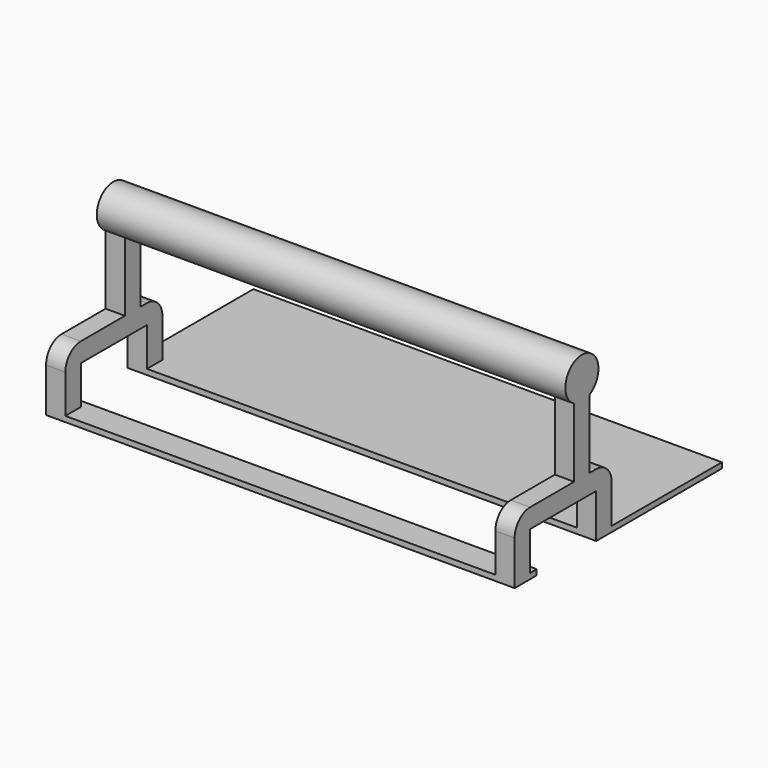
from build123d import *

# Parameters (mm, degrees)
PAD_DEPTH    = 170
SKETCH001_W  = 46
SKETCH001_H  = 156
POCKET_DEPTH = 44.001


with BuildPart() as part:
    # Sketch → Pad (new body)
    with BuildSketch(Plane.YZ):
        with BuildLine():
            Line((7, 0), (27, 0))
            Line((27, 0), (27, 25))
            ThreePointArc((34, 25), (30.5, 39.13325), (27, 25))
            Line((34, 25), (34, 0))
            Line((34, 0), (37, 0))
            ThreePointArc((44, -7), (41.949747, -2.050253), (37, 0))
            Line((44, -7), (44, -21))
            Line((44, -21), (94, -21))
            Line((94, -21), (94, -23))
            Line((94, -23), (37, -23))
            Line((37, -23), (37, -7))
            Line((37, -7), (7, -7))
            Line((7, -7), (7, -21))
            Line((7, -21), (10, -21))
            Line((10, -21), (10, -23))
            Line((10, -23), (0, -23))
            Line((0, -23), (0, -7))
            ThreePointArc((7, 0), (2.050253, -2.050253), (0, -7))
        make_face()
    extrude(amount=PAD_DEPTH)

    # Sketch001 (on Face7 of Pad) → Pocket (cut, through all)
    with BuildSketch(Plane.ZX.offset(44)):
        with Locations((2, 85)):
            Rectangle(SKETCH001_W, SKETCH001_H)
    extrude(amount=-POCKET_DEPTH, mode=Mode.SUBTRACT)


solid = part.part
